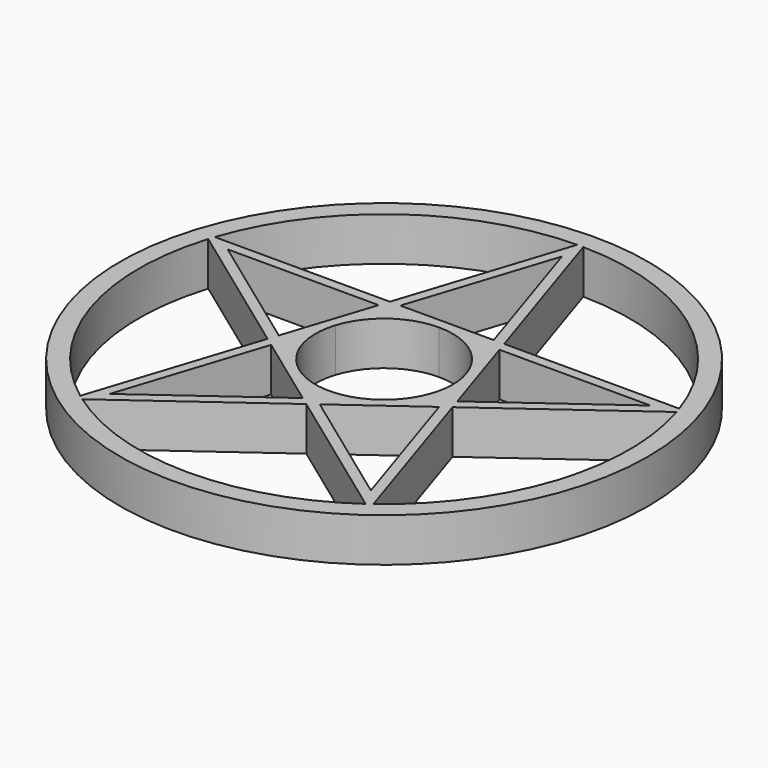
from build123d import *

# Parameters (mm, degrees)
F1_R     = 42.2744565165
F1_R_2   = 39.2744565165
F2_DEPTH = 7


with BuildPart() as f2:
    # F0 (on Top) + F1 (on Top) → F2 (new body)
    with BuildSketch(Plane.XY):
        Polygon((-38.7788125684, 12.6), (-14.8121883578, -4.8127717418), (-14.2923168438, -3.2127717418), (-33.8545189089, 11), (-9.6743073668, 11), (-9.1544358529, 12.6), align=None)
        Polygon((0, 40.7744565165), (-9.1544358529, 12.6), (-7.4720962941, 12.6), (0, 35.5967477525), (7.4720962941, 12.6), (9.1544358529, 12.6), align=None)
        Polygon((14.2923168438, -3.2127717418), (14.8121883578, -4.8127717418), (38.7788125684, 12.6), (9.1544358529, 12.6), (9.6743073668, 11), (33.8545189089, 11), align=None)
        Polygon((-14.2923168438, -3.2127717418), (-14.8121883578, -4.8127717418), (-13.4511470644, -5.8016261238), (-12.9312755504, -4.2016261238), align=None)
        Polygon((1.3610412934, -14.5856021345), (0, -15.5744565165), (23.9666242106, -32.9872282582), (14.8121883578, -4.8127717418), (13.4511470644, -5.8016261238), (20.9232433585, -28.7983738762), align=None)
        Polygon((-14.8121883578, -4.8127717418), (-23.9666242106, -32.9872282582), (0, -15.5744565165), (-1.3610412934, -14.5856021345), (-20.9232433585, -28.7983738762), (-13.4511470644, -5.8016261238), align=None)
        Polygon((-12.9312755504, -4.2016261238), (-13.4511470644, -5.8016261238), (-1.3610412934, -14.5856021345), (0, -13.5967477525), (-6.4656378984, -8.8991868487), align=None)
        Polygon((13.4511470644, -5.8016261238), (14.8121883578, -4.8127717418), (14.2923168438, -3.2127717418), (12.9312755504, -4.2016261238), align=None)
        Polygon((9.6743073668, 11), (9.1544358529, 12.6), (7.4720962941, 12.6), (7.9919678081, 11), align=None)
        Polygon((-9.1544358529, 12.6), (-9.6743073668, 11), (-7.9919678081, 11), (-7.4720962941, 12.6), align=None)
        Polygon((-7.4720962941, 12.6), (-7.9919678081, 11), (2.6e-09, 11), (7.9919678081, 11), (7.4720962941, 12.6), align=None)
        Polygon((-9.6743073668, 11), (-14.2923168438, -3.2127717418), (-12.9312755504, -4.2016261238), (-10.4616217408, 3.3991867487), (-7.9919678081, 11), align=None)
        Polygon((0, -13.5967477525), (1.3610412934, -14.5856021345), (13.4511470644, -5.8016261238), (12.9312755504, -4.2016261238), (6.4656378214, -8.8991869046), align=None)
        Polygon((12.9312755504, -4.2016261238), (14.2923168438, -3.2127717418), (9.6743073668, 11), (7.9919678081, 11), (10.4616216333, 3.3991870796), align=None)
        Polygon((-1.3610412934, -14.5856021345), (0, -15.5744565165), (1.3610412934, -14.5856021345), (0, -13.5967477525), align=None)
        with BuildLine():
            Line((-10.4616217408, 3.3991867487), (-12.9312755504, -4.2016261238))
            Line((-12.9312755504, -4.2016261238), (-6.4656378984, -8.8991868487))
            ThreePointArc((-6.4656378984, -8.8991868487), (-10.461621672, -3.3991869604), (-10.4616217408, 3.3991867487))
        make_face()
        with BuildLine():
            Line((-6.4656378984, -8.8991868487), (0, -13.5967477525))
            Line((0, -13.5967477525), (6.4656378214, -8.8991869046))
            ThreePointArc((6.4656378214, -8.8991869046), (-4.76e-08, -11), (-6.4656378984, -8.8991868487))
        make_face()
        with BuildLine():
            ThreePointArc((11, 0), (9.801071779, -4.9938954717), (6.4656378214, -8.8991869046))
            Line((6.4656378214, -8.8991869046), (12.9312755504, -4.2016261238))
            Line((12.9312755504, -4.2016261238), (10.4616216333, 3.3991870796))
            ThreePointArc((10.4616216333, 3.3991870796), (10.8645717349, 1.7207791889), (11, 0))
        make_face()
        with BuildLine():
            Line((7.9919678081, 11), (2.6e-09, 11))
            ThreePointArc((2.6e-09, 11), (6.4656377161, 8.8991869811), (10.4616216333, 3.3991870796))
            Line((10.4616216333, 3.3991870796), (7.9919678081, 11))
        make_face()
        with BuildLine():
            Line((2.6e-09, 11), (-7.9919678081, 11))
            Line((-7.9919678081, 11), (-10.4616217408, 3.3991867487))
            ThreePointArc((-10.4616217408, 3.3991867487), (-6.4656378547, 8.8991868804), (2.6e-09, 11))
        make_face()
    with BuildSketch(Plane.XY):
        Circle(F1_R)
        Circle(F1_R_2, mode=Mode.SUBTRACT)
    extrude(amount=F2_DEPTH)


solid = f2.part
